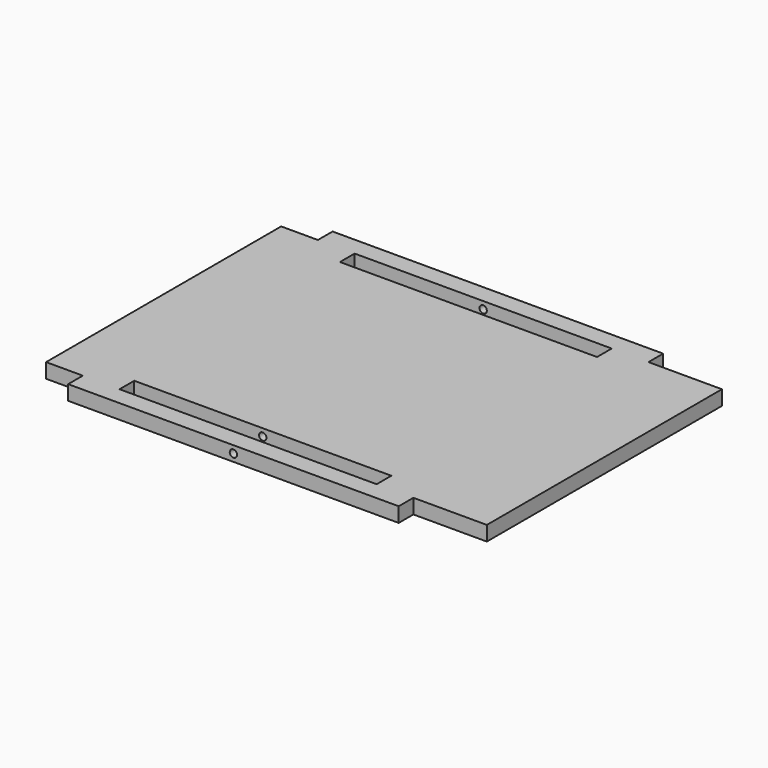
from build123d import *

# Parameters (mm, degrees)
F1_DEPTH = 5.08
F3_DEPTH = 152.4


with BuildPart() as f1:
    # F0 (on Top) → F1 (new body)
    with BuildSketch(Plane.XY):
        Polygon((-76.2, 50.8), (-76.2, 0), (-76.2, -50.8), (-63.5, -50.8), (-50.8, -50.8), (-50.8, -44.45), (38.1, -44.45), (38.1, -50.8), (50.8, -50.8), (76.2, -50.8), (76.2, 0), (76.2, 50.8), (50.8, 50.8), (38.1, 50.8), (38.1, 44.45), (-50.8, 44.45), (-50.8, 50.8), (-63.5, 50.8), align=None)
        Polygon((-63.5, 57.15), (-63.5, 50.8), (-50.8, 50.8), (38.1, 50.8), (50.8, 50.8), (50.8, 57.15), align=None)
        Polygon((-50.8, -50.8), (-63.5, -50.8), (-63.5, -57.15), (50.8, -57.15), (50.8, -50.8), (38.1, -50.8), align=None)
    extrude(amount=F1_DEPTH)

    # F2 (on face) → F3 (cut)
    with BuildSketch(Plane.XZ.offset(57.15)):
        with BuildLine():
            ThreePointArc((-6.35, 3.81), (-7.62, 2.54), (-6.35, 1.27))
            Line((-6.35, 1.27), (-6.35, 3.81))
        make_face()
        with BuildLine():
            Line((-6.35, 3.81), (-6.35, 1.27))
            ThreePointArc((-6.35, 1.27), (-5.451974, 1.641974), (-5.08, 2.54))
            ThreePointArc((-5.08, 2.54), (-5.451974, 3.438026), (-6.35, 3.81))
        make_face()
    extrude(amount=-F3_DEPTH, mode=Mode.SUBTRACT)


solid = f1.part
